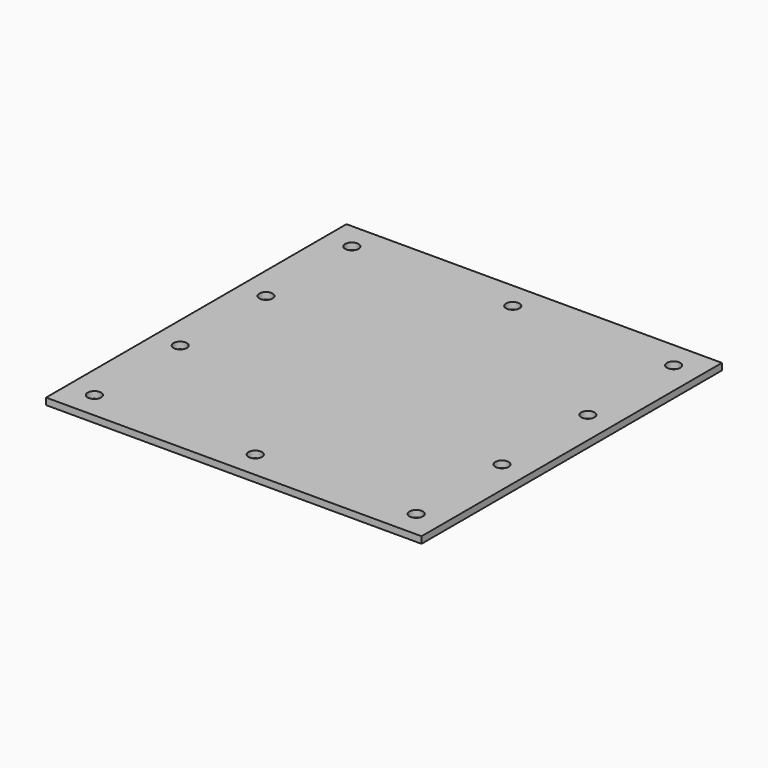
from build123d import *

# Parameters (mm, degrees)
F0_W     = 355.6
F0_H     = 355.6
F1_DEPTH = 6.35
F2_R     = 6.35
F3_DEPTH = 25.4
F5_R     = 6.35
F6_DEPTH = 25.4


with BuildPart() as f1:
    # F0 (on Top) → F1 (new body)
    with BuildSketch(Plane.XY):
        with Locations((177.8, 177.8)):
            Rectangle(F0_W, F0_H)
    extrude(amount=F1_DEPTH)

    # F2 (on face) → F3 (cut)
    with BuildSketch(Plane.XY.offset(6.35)):
        with Locations((25.4, 228.6)):
            Circle(F2_R)
        with Locations((177.8, 330.2)):
            Circle(F2_R)
        with Locations((330.2, 228.6)):
            Circle(F2_R)
        with Locations((25.4, 127)):
            Circle(F2_R)
        with Locations((177.8, 25.4)):
            Circle(F2_R)
        with Locations((330.2, 127)):
            Circle(F2_R)
    extrude(amount=-F3_DEPTH, mode=Mode.SUBTRACT)

    # F5 (on face) → F6 (cut)
    with BuildSketch(Plane.XY.offset(6.35)):
        with Locations((25.4, 330.2)):
            Circle(F5_R)
        with Locations((330.2, 330.2)):
            Circle(F5_R)
        with Locations((25.4, 25.4)):
            Circle(F5_R)
        with Locations((330.2, 25.4)):
            Circle(F5_R)
    extrude(amount=-F6_DEPTH, mode=Mode.SUBTRACT)


solid = f1.part
